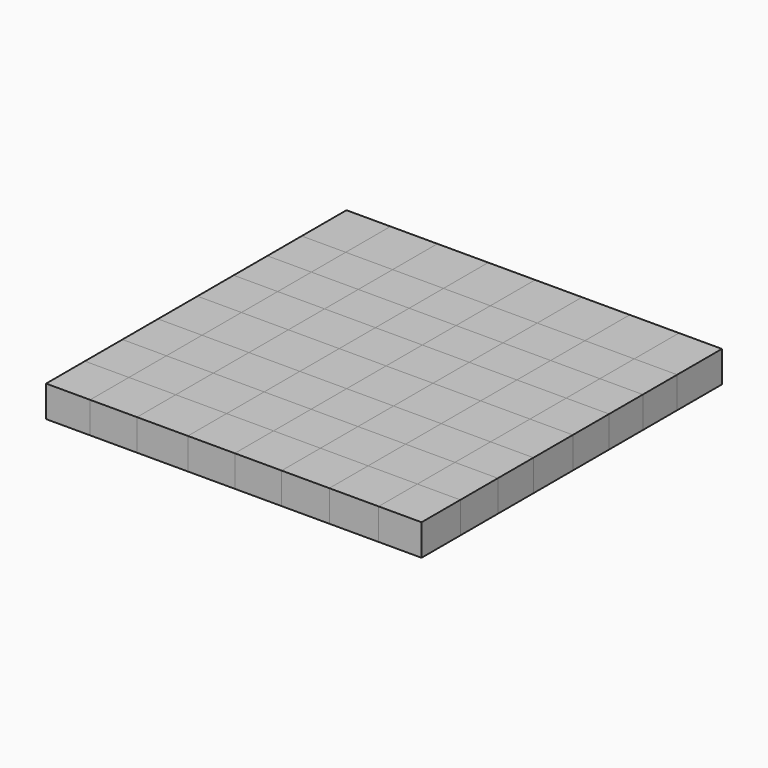
from build123d import *

# Parameters (mm, degrees)
F0_W     = 17.8670529068
F0_H     = 22.7063689172
F1_DEPTH = 12.7
F0_W_2   = 20.6477437168
F0_W_3   = 19.0346352756
F0_W_4   = 20.0024992228
F0_H_2   = 17.4215324223
F0_W_5   = 19.0346371382
F0_W_6   = 19.3572603166
F0_W_7   = 17.4215361476
F0_H_3   = 17.0989111066
F0_H_4   = 18.3893963695
F0_H_5   = 20.0025010854
F0_H_6   = 18.0667731911
F0_H_7   = 19.0346352756
F0_H_8   = 19.6798816323
F2_DEPTH = 12.7


with BuildPart() as f1:
    # F0 (on Top) → F1 (new body)
    with BuildSketch(Plane.XY):
        with Locations((-67.6505425841, 64.263024357)):
            Rectangle(F0_W, F0_H)
    extrude(amount=F1_DEPTH)


with BuildPart() as f1b:
    # F0 (on Top) → F1, piece 2 (new body)
    with BuildSketch(Plane.XY):
        with Locations((-29.3585089967, 64.263024357)):
            Rectangle(F0_W_2, F0_H)
    extrude(amount=F1_DEPTH)


with BuildPart() as f1c:
    # F0 (on Top) → F1, piece 3 (new body)
    with BuildSketch(Plane.XY):
        with Locations((9.5173176378, 64.263024357)):
            Rectangle(F0_W_3, F0_H)
    extrude(amount=F1_DEPTH)


with BuildPart() as f1d:
    # F0 (on Top) → F1, piece 4 (new body)
    with BuildSketch(Plane.XY):
        with Locations((48.3931452036, 64.263024357)):
            Rectangle(F0_W_4, F0_H)
    extrude(amount=F1_DEPTH)


with BuildPart() as f1e:
    # F0 (on Top) → F1, piece 5 (new body)
    with BuildSketch(Plane.XY):
        with Locations((-49.1996984929, 44.1990736872)):
            Rectangle(F0_W_3, F0_H_2)
    extrude(amount=F1_DEPTH)


with BuildPart() as f1f:
    # F0 (on Top) → F1, piece 6 (new body)
    with BuildSketch(Plane.XY):
        with Locations((-9.5173185691, 44.1990736872)):
            Rectangle(F0_W_5, F0_H_2)
    extrude(amount=F1_DEPTH)


with BuildPart() as f1g:
    # F0 (on Top) → F1, piece 7 (new body)
    with BuildSketch(Plane.XY):
        with Locations((28.7132654339, 44.1990736872)):
            Rectangle(F0_W_6, F0_H_2)
    extrude(amount=F1_DEPTH)


with BuildPart() as f1h:
    # F0 (on Top) → F1, piece 8 (new body)
    with BuildSketch(Plane.XY):
        with Locations((67.1051628888, 44.1990736872)):
            Rectangle(F0_W_7, F0_H_2)
    extrude(amount=F1_DEPTH)


with BuildPart() as f1i:
    # F0 (on Top) → F1, piece 9 (new body)
    with BuildSketch(Plane.XY):
        with Locations((48.3931452036, 26.9388519228)):
            Rectangle(F0_W_4, F0_H_3)
    extrude(amount=F1_DEPTH)


with BuildPart() as f1j:
    # F0 (on Top) → F1, piece 10 (new body)
    with BuildSketch(Plane.XY):
        with Locations((9.5173176378, 26.9388519228)):
            Rectangle(F0_W_3, F0_H_3)
    extrude(amount=F1_DEPTH)


with BuildPart() as f1k:
    # F0 (on Top) → F1, piece 11 (new body)
    with BuildSketch(Plane.XY):
        with Locations((-29.3585089967, 26.9388519228)):
            Rectangle(F0_W_2, F0_H_3)
    extrude(amount=F1_DEPTH)


with BuildPart() as f1l:
    # F0 (on Top) → F1, piece 12 (new body)
    with BuildSketch(Plane.XY):
        with Locations((-67.6505425841, 26.9388519228)):
            Rectangle(F0_W, F0_H_3)
    extrude(amount=F1_DEPTH)


with BuildPart() as f1m:
    # F0 (on Top) → F1, piece 13 (new body)
    with BuildSketch(Plane.XY):
        with Locations((-49.1996984929, 9.1946981847)):
            Rectangle(F0_W_3, F0_H_4)
    extrude(amount=F1_DEPTH)


with BuildPart() as f1n:
    # F0 (on Top) → F1, piece 14 (new body)
    with BuildSketch(Plane.XY):
        with Locations((-9.5173185691, 9.1946981847)):
            Rectangle(F0_W_5, F0_H_4)
    extrude(amount=F1_DEPTH)


with BuildPart() as f1o:
    # F0 (on Top) → F1, piece 15 (new body)
    with BuildSketch(Plane.XY):
        with Locations((28.7132654339, 9.1946981847)):
            Rectangle(F0_W_6, F0_H_4)
    extrude(amount=F1_DEPTH)


with BuildPart() as f1p:
    # F0 (on Top) → F1, piece 16 (new body)
    with BuildSketch(Plane.XY):
        with Locations((67.1051628888, 9.1946981847)):
            Rectangle(F0_W_7, F0_H_4)
    extrude(amount=F1_DEPTH)


with BuildPart() as f1q:
    # F0 (on Top) → F1, piece 17 (new body)
    with BuildSketch(Plane.XY):
        with Locations((48.3931452036, -10.0012505427)):
            Rectangle(F0_W_4, F0_H_5)
    extrude(amount=F1_DEPTH)


with BuildPart() as f1r:
    # F0 (on Top) → F1, piece 18 (new body)
    with BuildSketch(Plane.XY):
        with Locations((9.5173176378, -10.0012505427)):
            Rectangle(F0_W_3, F0_H_5)
    extrude(amount=F1_DEPTH)


with BuildPart() as f1s:
    # F0 (on Top) → F1, piece 19 (new body)
    with BuildSketch(Plane.XY):
        with Locations((-29.3585089967, -10.0012505427)):
            Rectangle(F0_W_2, F0_H_5)
    extrude(amount=F1_DEPTH)


with BuildPart() as f1t:
    # F0 (on Top) → F1, piece 20 (new body)
    with BuildSketch(Plane.XY):
        with Locations((-67.6505425841, -10.0012505427)):
            Rectangle(F0_W, F0_H_5)
    extrude(amount=F1_DEPTH)


with BuildPart() as f1u:
    # F0 (on Top) → F1, piece 21 (new body)
    with BuildSketch(Plane.XY):
        with Locations((-49.1996984929, -29.0358876809)):
            Rectangle(F0_W_3, F0_H_6)
    extrude(amount=F1_DEPTH)


with BuildPart() as f1v:
    # F0 (on Top) → F1, piece 22 (new body)
    with BuildSketch(Plane.XY):
        with Locations((-9.5173185691, -29.0358876809)):
            Rectangle(F0_W_5, F0_H_6)
    extrude(amount=F1_DEPTH)


with BuildPart() as f1w:
    # F0 (on Top) → F1, piece 23 (new body)
    with BuildSketch(Plane.XY):
        with Locations((28.7132654339, -29.0358876809)):
            Rectangle(F0_W_6, F0_H_6)
    extrude(amount=F1_DEPTH)


with BuildPart() as f1x:
    # F0 (on Top) → F1, piece 24 (new body)
    with BuildSketch(Plane.XY):
        with Locations((67.1051628888, -29.0358876809)):
            Rectangle(F0_W_7, F0_H_6)
    extrude(amount=F1_DEPTH)


with BuildPart() as f1y:
    # F0 (on Top) → F1, piece 25 (new body)
    with BuildSketch(Plane.XY):
        with Locations((48.3931452036, -47.5865919143)):
            Rectangle(F0_W_4, F0_H_7)
    extrude(amount=F1_DEPTH)


with BuildPart() as f1z:
    # F0 (on Top) → F1, piece 26 (new body)
    with BuildSketch(Plane.XY):
        with Locations((9.5173176378, -47.5865919143)):
            Rectangle(F0_W_3, F0_H_7)
    extrude(amount=F1_DEPTH)


with BuildPart() as f1ba:
    # F0 (on Top) → F1, piece 27 (new body)
    with BuildSketch(Plane.XY):
        with Locations((-29.3585089967, -47.5865919143)):
            Rectangle(F0_W_2, F0_H_7)
    extrude(amount=F1_DEPTH)


with BuildPart() as f1bb:
    # F0 (on Top) → F1, piece 28 (new body)
    with BuildSketch(Plane.XY):
        with Locations((-67.6505425841, -47.5865919143)):
            Rectangle(F0_W, F0_H_7)
    extrude(amount=F1_DEPTH)


with BuildPart() as f1bc:
    # F0 (on Top) → F1, piece 29 (new body)
    with BuildSketch(Plane.XY):
        with Locations((-49.1996984929, -66.9438503683)):
            Rectangle(F0_W_3, F0_H_8)
    extrude(amount=F1_DEPTH)


with BuildPart() as f1bd:
    # F0 (on Top) → F1, piece 30 (new body)
    with BuildSketch(Plane.XY):
        with Locations((-9.5173185691, -66.9438503683)):
            Rectangle(F0_W_5, F0_H_8)
    extrude(amount=F1_DEPTH)


with BuildPart() as f1be:
    # F0 (on Top) → F1, piece 31 (new body)
    with BuildSketch(Plane.XY):
        with Locations((28.7132654339, -66.9438503683)):
            Rectangle(F0_W_6, F0_H_8)
    extrude(amount=F1_DEPTH)


with BuildPart() as f1bf:
    # F0 (on Top) → F1, piece 32 (new body)
    with BuildSketch(Plane.XY):
        with Locations((67.1051628888, -66.9438503683)):
            Rectangle(F0_W_7, F0_H_8)
    extrude(amount=F1_DEPTH)


with BuildPart() as f2:
    # F0 (on Top) → F2 (new body)
    with BuildSketch(Plane.XY):
        with Locations((-49.1996984929, 64.263024357)):
            Rectangle(F0_W_3, F0_H)
    extrude(amount=F2_DEPTH)


with BuildPart() as f2b:
    # F0 (on Top) → F2, piece 2 (new body)
    with BuildSketch(Plane.XY):
        with Locations((-9.5173185691, 64.263024357)):
            Rectangle(F0_W_5, F0_H)
    extrude(amount=F2_DEPTH)


with BuildPart() as f2c:
    # F0 (on Top) → F2, piece 3 (new body)
    with BuildSketch(Plane.XY):
        with Locations((28.7132654339, 64.263024357)):
            Rectangle(F0_W_6, F0_H)
    extrude(amount=F2_DEPTH)


with BuildPart() as f2d:
    # F0 (on Top) → F2, piece 4 (new body)
    with BuildSketch(Plane.XY):
        with Locations((67.1051628888, 64.263024357)):
            Rectangle(F0_W_7, F0_H)
    extrude(amount=F2_DEPTH)


with BuildPart() as f2e:
    # F0 (on Top) → F2, piece 5 (new body)
    with BuildSketch(Plane.XY):
        with Locations((-67.6505425841, 44.1990736872)):
            Rectangle(F0_W, F0_H_2)
    extrude(amount=F2_DEPTH)


with BuildPart() as f2f:
    # F0 (on Top) → F2, piece 6 (new body)
    with BuildSketch(Plane.XY):
        with Locations((-29.3585089967, 44.1990736872)):
            Rectangle(F0_W_2, F0_H_2)
    extrude(amount=F2_DEPTH)


with BuildPart() as f2g:
    # F0 (on Top) → F2, piece 7 (new body)
    with BuildSketch(Plane.XY):
        with Locations((9.5173176378, 44.1990736872)):
            Rectangle(F0_W_3, F0_H_2)
    extrude(amount=F2_DEPTH)


with BuildPart() as f2h:
    # F0 (on Top) → F2, piece 8 (new body)
    with BuildSketch(Plane.XY):
        with Locations((48.3931452036, 44.1990736872)):
            Rectangle(F0_W_4, F0_H_2)
    extrude(amount=F2_DEPTH)


with BuildPart() as f2i:
    # F0 (on Top) → F2, piece 9 (new body)
    with BuildSketch(Plane.XY):
        with Locations((67.1051628888, 26.9388519228)):
            Rectangle(F0_W_7, F0_H_3)
    extrude(amount=F2_DEPTH)


with BuildPart() as f2j:
    # F0 (on Top) → F2, piece 10 (new body)
    with BuildSketch(Plane.XY):
        with Locations((28.7132654339, 26.9388519228)):
            Rectangle(F0_W_6, F0_H_3)
    extrude(amount=F2_DEPTH)


with BuildPart() as f2k:
    # F0 (on Top) → F2, piece 11 (new body)
    with BuildSketch(Plane.XY):
        with Locations((-9.5173185691, 26.9388519228)):
            Rectangle(F0_W_5, F0_H_3)
    extrude(amount=F2_DEPTH)


with BuildPart() as f2l:
    # F0 (on Top) → F2, piece 12 (new body)
    with BuildSketch(Plane.XY):
        with Locations((-49.1996984929, 26.9388519228)):
            Rectangle(F0_W_3, F0_H_3)
    extrude(amount=F2_DEPTH)


with BuildPart() as f2m:
    # F0 (on Top) → F2, piece 13 (new body)
    with BuildSketch(Plane.XY):
        with Locations((-67.6505425841, 9.1946981847)):
            Rectangle(F0_W, F0_H_4)
    extrude(amount=F2_DEPTH)


with BuildPart() as f2n:
    # F0 (on Top) → F2, piece 14 (new body)
    with BuildSketch(Plane.XY):
        with Locations((-29.3585089967, 9.1946981847)):
            Rectangle(F0_W_2, F0_H_4)
    extrude(amount=F2_DEPTH)


with BuildPart() as f2o:
    # F0 (on Top) → F2, piece 15 (new body)
    with BuildSketch(Plane.XY):
        with Locations((9.5173176378, 9.1946981847)):
            Rectangle(F0_W_3, F0_H_4)
    extrude(amount=F2_DEPTH)


with BuildPart() as f2p:
    # F0 (on Top) → F2, piece 16 (new body)
    with BuildSketch(Plane.XY):
        with Locations((48.3931452036, 9.1946981847)):
            Rectangle(F0_W_4, F0_H_4)
    extrude(amount=F2_DEPTH)


with BuildPart() as f2q:
    # F0 (on Top) → F2, piece 17 (new body)
    with BuildSketch(Plane.XY):
        with Locations((67.1051628888, -10.0012505427)):
            Rectangle(F0_W_7, F0_H_5)
    extrude(amount=F2_DEPTH)


with BuildPart() as f2r:
    # F0 (on Top) → F2, piece 18 (new body)
    with BuildSketch(Plane.XY):
        with Locations((28.7132654339, -10.0012505427)):
            Rectangle(F0_W_6, F0_H_5)
    extrude(amount=F2_DEPTH)


with BuildPart() as f2s:
    # F0 (on Top) → F2, piece 19 (new body)
    with BuildSketch(Plane.XY):
        with Locations((-9.5173185691, -10.0012505427)):
            Rectangle(F0_W_5, F0_H_5)
    extrude(amount=F2_DEPTH)


with BuildPart() as f2t:
    # F0 (on Top) → F2, piece 20 (new body)
    with BuildSketch(Plane.XY):
        with Locations((-49.1996984929, -10.0012505427)):
            Rectangle(F0_W_3, F0_H_5)
    extrude(amount=F2_DEPTH)


with BuildPart() as f2u:
    # F0 (on Top) → F2, piece 21 (new body)
    with BuildSketch(Plane.XY):
        with Locations((-67.6505425841, -29.0358876809)):
            Rectangle(F0_W, F0_H_6)
    extrude(amount=F2_DEPTH)


with BuildPart() as f2v:
    # F0 (on Top) → F2, piece 22 (new body)
    with BuildSketch(Plane.XY):
        with Locations((-29.3585089967, -29.0358876809)):
            Rectangle(F0_W_2, F0_H_6)
    extrude(amount=F2_DEPTH)


with BuildPart() as f2w:
    # F0 (on Top) → F2, piece 23 (new body)
    with BuildSketch(Plane.XY):
        with Locations((9.5173176378, -29.0358876809)):
            Rectangle(F0_W_3, F0_H_6)
    extrude(amount=F2_DEPTH)


with BuildPart() as f2x:
    # F0 (on Top) → F2, piece 24 (new body)
    with BuildSketch(Plane.XY):
        with Locations((48.3931452036, -29.0358876809)):
            Rectangle(F0_W_4, F0_H_6)
    extrude(amount=F2_DEPTH)


with BuildPart() as f2y:
    # F0 (on Top) → F2, piece 25 (new body)
    with BuildSketch(Plane.XY):
        with Locations((67.1051628888, -47.5865919143)):
            Rectangle(F0_W_7, F0_H_7)
    extrude(amount=F2_DEPTH)


with BuildPart() as f2z:
    # F0 (on Top) → F2, piece 26 (new body)
    with BuildSketch(Plane.XY):
        with Locations((28.7132654339, -47.5865919143)):
            Rectangle(F0_W_6, F0_H_7)
    extrude(amount=F2_DEPTH)


with BuildPart() as f2ba:
    # F0 (on Top) → F2, piece 27 (new body)
    with BuildSketch(Plane.XY):
        with Locations((-9.5173185691, -47.5865919143)):
            Rectangle(F0_W_5, F0_H_7)
    extrude(amount=F2_DEPTH)


with BuildPart() as f2bb:
    # F0 (on Top) → F2, piece 28 (new body)
    with BuildSketch(Plane.XY):
        with Locations((-49.1996984929, -47.5865919143)):
            Rectangle(F0_W_3, F0_H_7)
    extrude(amount=F2_DEPTH)


with BuildPart() as f2bc:
    # F0 (on Top) → F2, piece 29 (new body)
    with BuildSketch(Plane.XY):
        with Locations((-67.6505425841, -66.9438503683)):
            Rectangle(F0_W, F0_H_8)
    extrude(amount=F2_DEPTH)


with BuildPart() as f2bd:
    # F0 (on Top) → F2, piece 30 (new body)
    with BuildSketch(Plane.XY):
        with Locations((-29.3585089967, -66.9438503683)):
            Rectangle(F0_W_2, F0_H_8)
    extrude(amount=F2_DEPTH)


with BuildPart() as f2be:
    # F0 (on Top) → F2, piece 31 (new body)
    with BuildSketch(Plane.XY):
        with Locations((9.5173176378, -66.9438503683)):
            Rectangle(F0_W_3, F0_H_8)
    extrude(amount=F2_DEPTH)


with BuildPart() as f2bf:
    # F0 (on Top) → F2, piece 32 (new body)
    with BuildSketch(Plane.XY):
        with Locations((48.3931452036, -66.9438503683)):
            Rectangle(F0_W_4, F0_H_8)
    extrude(amount=F2_DEPTH)


solid = Compound([f1.part, f1b.part, f1c.part, f1d.part, f1e.part, f1f.part, f1g.part, f1h.part, f1i.part, f1j.part, f1k.part, f1l.part, f1m.part, f1n.part, f1o.part, f1p.part, f1q.part, f1r.part, f1s.part, f1t.part, f1u.part, f1v.part, f1w.part, f1x.part, f1y.part, f1z.part, f1ba.part, f1bb.part, f1bc.part, f1bd.part, f1be.part, f1bf.part, f2.part, f2b.part, f2c.part, f2d.part, f2e.part, f2f.part, f2g.part, f2h.part, f2i.part, f2j.part, f2k.part, f2l.part, f2m.part, f2n.part, f2o.part, f2p.part, f2q.part, f2r.part, f2s.part, f2t.part, f2u.part, f2v.part, f2w.part, f2x.part, f2y.part, f2z.part, f2ba.part, f2bb.part, f2bc.part, f2bd.part, f2be.part, f2bf.part])
